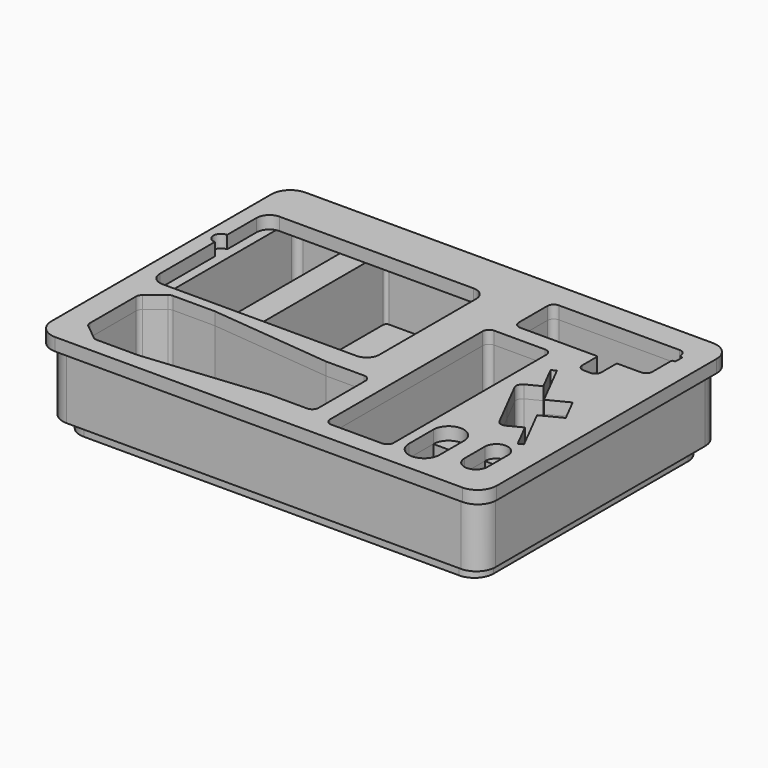
from build123d import *

# Parameters (mm, degrees)
F0_W     = 30.48
F0_H     = 30.48
F1_DEPTH = 63.5
F3_DEPTH = 12.7
F5_DEPTH = 12.7


with BuildPart() as f1:
    # F0 (on Top) → F1 (new body)
    with BuildSketch(Plane.XY):
        with BuildLine():
            Line((196.85, 149.86), (-196.85, 149.86))
            ThreePointArc((-196.85, 149.86), (-210.320384, 144.280384), (-215.9, 130.81))
            Line((-215.9, 130.81), (-215.9, -130.81))
            ThreePointArc((-215.9, -130.81), (-210.320384, -144.280384), (-196.85, -149.86))
            Line((-196.85, -149.86), (196.85, -149.86))
            ThreePointArc((196.85, -149.86), (210.320384, -144.280384), (215.9, -130.81))
            Line((215.9, -130.81), (215.9, 130.81))
            ThreePointArc((215.9, 130.81), (210.320384, 144.280384), (196.85, 149.86))
        make_face()
        with BuildLine():
            ThreePointArc((-194.486228, -125.731268), (-196.228658, -123.527866), (-196.85, -120.788345))
            Line((-196.85, -120.788345), (-196.85, -63.361655))
            ThreePointArc((-196.85, -63.361655), (-196.228658, -60.622134), (-194.486228, -58.418732))
            Line((-194.486228, -58.418732), (-178.909776, -45.857077))
            ThreePointArc((-178.909776, -45.857077), (-177.037187, -44.812093), (-174.923548, -44.45))
            Line((-174.923548, -44.45), (-133.35, -44.45))
            Line((-133.35, -44.45), (-12.7, -56.515))
            Line((-12.7, -56.515), (25.4, -56.515))
            ThreePointArc((25.4, -56.515), (29.890128, -58.374872), (31.75, -62.865))
            Line((31.75, -62.865), (31.75, -121.285))
            ThreePointArc((31.75, -121.285), (29.890128, -125.775128), (25.4, -127.635))
            Line((25.4, -127.635), (-12.7, -127.635))
            Line((-12.7, -127.635), (-133.35, -139.7))
            Line((-133.35, -139.7), (-174.923548, -139.7))
            ThreePointArc((-174.923548, -139.7), (-177.037187, -139.337907), (-178.909776, -138.292923))
            Line((-178.909776, -138.292923), (-194.486228, -125.731268))
        make_face(mode=Mode.SUBTRACT)
        with Locations((139.7, -109.22)):
            Rectangle(F0_W, F0_H, mode=Mode.SUBTRACT)
        with BuildLine():
            Line((173.736, -106.68), (173.736, -91.44))
            Line((173.736, -91.44), (196.85, -91.44))
            Line((196.85, -91.44), (196.85, -106.68))
            ThreePointArc((196.85, -106.68), (185.293, -118.237), (173.736, -106.68))
        make_face(mode=Mode.SUBTRACT)
        with BuildLine():
            ThreePointArc((114.3, -130.81), (112.440128, -135.300128), (107.95, -137.16))
            Line((107.95, -137.16), (57.15, -137.16))
            ThreePointArc((57.15, -137.16), (52.659872, -135.300128), (50.8, -130.81))
            Line((50.8, -130.81), (50.8, 59.69))
            ThreePointArc((50.8, 59.69), (52.659872, 64.180128), (57.15, 66.04))
            Line((57.15, 66.04), (107.95, 66.04))
            ThreePointArc((107.95, 66.04), (112.440128, 64.180128), (114.3, 59.69))
            Line((114.3, 59.69), (114.3, -130.81))
        make_face(mode=Mode.SUBTRACT)
        with BuildLine():
            Line((155.867918, -50.834227), (142.606856, -24.807927))
            Line((142.606856, -24.807927), (129.345794, 1.218374))
            ThreePointArc((129.345794, 1.218374), (128.964476, 6.063472), (132.120845, 9.759105))
            Line((132.120845, 9.759105), (145.699785, 16.67792))
            Line((145.699785, 16.67792), (133.01529, 41.572643))
            Line((133.01529, 41.572643), (137.541603, 43.878914))
            Line((137.541603, 43.878914), (160.316037, -0.818428))
            Line((160.316037, -0.818428), (180.684446, 9.559795))
            Line((180.684446, 9.559795), (186.738409, -2.321777))
            Line((186.738409, -2.321777), (192.792372, -14.203349))
            Line((192.792372, -14.203349), (172.423963, -24.581572))
            Line((172.423963, -24.581572), (195.198397, -69.278914))
            Line((195.198397, -69.278914), (190.672084, -71.585186))
            Line((190.672084, -71.585186), (177.987589, -46.690464))
            Line((177.987589, -46.690464), (164.40865, -53.609279))
            ThreePointArc((164.40865, -53.609279), (159.563552, -53.990596), (155.867918, -50.834227))
        make_face(mode=Mode.SUBTRACT)
        with BuildLine():
            ThreePointArc((-190.5, -21.59), (-194.990128, -19.730128), (-196.85, -15.24))
            Line((-196.85, -15.24), (-196.85, 130.81))
            ThreePointArc((-196.85, 130.81), (-194.990128, 135.300128), (-190.5, 137.16))
            Line((-190.5, 137.16), (-136.525, 137.16))
            ThreePointArc((-136.525, 137.16), (-134.279936, 136.230064), (-133.35, 133.985))
            Line((-133.35, 133.985), (-133.35, -18.415))
            ThreePointArc((-133.35, -18.415), (-134.279936, -20.660064), (-136.525, -21.59))
            Line((-136.525, -21.59), (-190.5, -21.59))
        make_face(mode=Mode.SUBTRACT)
        with BuildLine():
            Line((31.75, 26.035), (31.75, -21.59))
            ThreePointArc((31.75, -21.59), (29.890128, -26.080128), (25.4, -27.94))
            Line((25.4, -27.94), (-15.875, -27.94))
            ThreePointArc((-15.875, -27.94), (-18.120064, -27.010064), (-19.05, -24.765))
            ThreePointArc((-19.05, -24.765), (-19.979936, -22.519936), (-22.225, -21.59))
            Line((-22.225, -21.59), (-104.775, -21.59))
            ThreePointArc((-104.775, -21.59), (-107.020064, -20.660064), (-107.95, -18.415))
            Line((-107.95, -18.415), (-107.95, 133.985))
            ThreePointArc((-107.95, 133.985), (-107.020064, 136.230064), (-104.775, 137.16))
            Line((-104.775, 137.16), (-6.35, 137.16))
            ThreePointArc((-6.35, 137.16), (-1.859872, 135.300128), (0, 130.81))
            Line((0, 130.81), (0, 86.36))
            ThreePointArc((0, 86.36), (1.859872, 81.869872), (6.35, 80.01))
            Line((6.35, 80.01), (34.925, 80.01))
            ThreePointArc((34.925, 80.01), (37.170064, 79.080064), (38.1, 76.835))
            Line((38.1, 76.835), (38.1, 32.385))
            ThreePointArc((38.1, 32.385), (37.170064, 30.139936), (34.925, 29.21))
            ThreePointArc((34.925, 29.21), (32.679936, 28.280064), (31.75, 26.035))
        make_face(mode=Mode.SUBTRACT)
        with BuildLine():
            ThreePointArc((69.85, 82.55), (65.359872, 84.409872), (63.5, 88.9))
            Line((63.5, 88.9), (63.5, 124.46))
            ThreePointArc((63.5, 124.46), (65.359872, 128.950128), (69.85, 130.81))
            Line((69.85, 130.81), (190.5, 130.81))
            ThreePointArc((190.5, 130.81), (194.990128, 128.950128), (196.85, 124.46))
            Line((196.85, 124.46), (196.85, 124.1298))
            ThreePointArc((196.85, 124.1298), (197.226412, 123.239995), (198.119936, 122.8725))
            Line((198.119936, 122.8725), (198.755, 122.8725))
            ThreePointArc((198.755, 122.8725), (199.653026, 122.500526), (200.025, 121.6025))
            Line((200.025, 121.6025), (200.025, 114.6175))
            ThreePointArc((200.025, 114.6175), (199.653026, 113.719474), (198.755, 113.3475))
            Line((198.755, 113.3475), (198.12, 113.3475))
            ThreePointArc((198.12, 113.3475), (197.221974, 112.975526), (196.85, 112.0775))
            Line((196.85, 112.0775), (196.85, 88.9))
            ThreePointArc((196.85, 88.9), (194.990128, 84.409872), (190.5, 82.55))
            Line((190.5, 82.55), (167.64, 82.55))
            ThreePointArc((167.64, 82.55), (166.741974, 82.178026), (166.37, 81.28))
            Line((166.37, 81.28), (166.37, 63.5))
            ThreePointArc((166.37, 63.5), (164.510128, 59.009872), (160.02, 57.15))
            Line((160.02, 57.15), (153.67, 57.15))
            ThreePointArc((153.67, 57.15), (149.179872, 59.009872), (147.32, 63.5))
            Line((147.32, 63.5), (147.32, 81.28))
            ThreePointArc((147.32, 81.28), (146.948026, 82.178026), (146.05, 82.55))
            Line((146.05, 82.55), (69.85, 82.55))
        make_face(mode=Mode.SUBTRACT)
    extrude(amount=F1_DEPTH)


with BuildPart() as f3:
    # F2 (on Top) → F3 (new body)
    with BuildSketch(Plane.XY):
        with BuildLine():
            Line((187.325, 140.335), (-187.325, 140.335))
            ThreePointArc((-187.325, 140.335), (-200.795384, 134.755384), (-206.375, 121.285))
            Line((-206.375, 121.285), (-206.375, -121.285))
            ThreePointArc((-206.375, -121.285), (-200.795384, -134.755384), (-187.325, -140.335))
            Line((-187.325, -140.335), (187.325, -140.335))
            ThreePointArc((187.325, -140.335), (200.795384, -134.755384), (206.375, -121.285))
            Line((206.375, -121.285), (206.375, 121.285))
            ThreePointArc((206.375, 121.285), (200.795384, 134.755384), (187.325, 140.335))
        make_face()
        with BuildLine():
            Line((-182.968114, -65.445176), (-173.554483, -57.853539))
            ThreePointArc((-173.554483, -57.853539), (-172.618189, -57.331047), (-171.561369, -57.15))
            Line((-171.561369, -57.15), (-134.141775, -57.15))
            ThreePointArc((-134.141775, -57.15), (-133.983617, -57.153942), (-133.825851, -57.165757))
            Line((-133.825851, -57.165757), (-13.49099, -69.199243))
            ThreePointArc((-13.49099, -69.199243), (-13.333224, -69.211058), (-13.175065, -69.215))
            Line((-13.175065, -69.215), (15.875, -69.215))
            ThreePointArc((15.875, -69.215), (18.120064, -70.144936), (19.05, -72.39))
            Line((19.05, -72.39), (19.05, -79.375))
            ThreePointArc((19.05, -79.375), (19.979936, -81.620064), (22.225, -82.55))
            Line((22.225, -82.55), (76.2, -82.55))
            ThreePointArc((76.2, -82.55), (85.725, -92.075), (76.2, -101.6))
            Line((76.2, -101.6), (22.225, -101.6))
            ThreePointArc((22.225, -101.6), (19.979936, -102.529936), (19.05, -104.775))
            Line((19.05, -104.775), (19.05, -111.76))
            ThreePointArc((19.05, -111.76), (18.120064, -114.005064), (15.875, -114.935))
            Line((15.875, -114.935), (-13.175065, -114.935))
            ThreePointArc((-13.175065, -114.935), (-13.333224, -114.938942), (-13.49099, -114.950757))
            Line((-13.49099, -114.950757), (-133.825851, -126.984243))
            ThreePointArc((-133.825851, -126.984243), (-133.983617, -126.996058), (-134.141775, -127))
            Line((-134.141775, -127), (-171.561369, -127))
            ThreePointArc((-171.561369, -127), (-172.618189, -126.818953), (-173.554483, -126.296461))
            Line((-173.554483, -126.296461), (-182.968114, -118.704824))
            ThreePointArc((-182.968114, -118.704824), (-183.839329, -117.603123), (-184.15, -116.233362))
            Line((-184.15, -116.233362), (-184.15, -67.916638))
            ThreePointArc((-184.15, -67.916638), (-183.839329, -66.546877), (-182.968114, -65.445176))
        make_face(mode=Mode.SUBTRACT)
        with BuildLine():
            Line((-158.75, 41.91), (-158.75, 54.61))
            Line((-158.75, 54.61), (-158.75, 67.31))
            ThreePointArc((-158.75, 67.31), (-157.820064, 69.555064), (-155.575, 70.485))
            Line((-155.575, 70.485), (-85.725, 70.485))
            ThreePointArc((-85.725, 70.485), (-83.479936, 69.555064), (-82.55, 67.31))
            Line((-82.55, 67.31), (-82.55, 54.61))
            Line((-82.55, 54.61), (-82.55, 41.91))
            ThreePointArc((-82.55, 41.91), (-83.479936, 39.664936), (-85.725, 38.735))
            Line((-85.725, 38.735), (-155.575, 38.735))
            ThreePointArc((-155.575, 38.735), (-157.820064, 39.664936), (-158.75, 41.91))
        make_face(mode=Mode.SUBTRACT)
        with BuildLine():
            ThreePointArc((-8.125321, 54.61), (-6.265449, 59.100128), (-1.775321, 60.96))
            Line((-1.775321, 60.96), (87.124679, 60.96))
            ThreePointArc((87.124679, 60.96), (91.614807, 59.100128), (93.474679, 54.61))
            Line((93.474679, 54.61), (93.474679, 35.56))
            ThreePointArc((93.474679, 35.56), (91.614807, 31.069872), (87.124679, 29.21))
            Line((87.124679, 29.21), (-1.775321, 29.21))
            ThreePointArc((-1.775321, 29.21), (-6.265449, 31.069872), (-8.125321, 35.56))
            Line((-8.125321, 35.56), (-8.125321, 54.61))
        make_face(mode=Mode.SUBTRACT)
    extrude(amount=-F3_DEPTH)


with BuildPart() as f5:
    # F4 (on face) → F5 (new body)
    with BuildSketch(Plane.XY.offset(63.5)):
        with BuildLine():
            Line((203.2, 156.21), (-203.2, 156.21))
            ThreePointArc((-203.2, 156.21), (-216.670384, 150.630384), (-222.25, 137.16))
            Line((-222.25, 137.16), (-222.25, -137.16))
            ThreePointArc((-222.25, -137.16), (-216.670384, -150.630384), (-203.2, -156.21))
            Line((-203.2, -156.21), (203.2, -156.21))
            ThreePointArc((203.2, -156.21), (216.670384, -150.630384), (222.25, -137.16))
            Line((222.25, -137.16), (222.25, 137.16))
            ThreePointArc((222.25, 137.16), (216.670384, 150.630384), (203.2, 156.21))
        make_face()
        with BuildLine():
            ThreePointArc((-194.486228, -125.731268), (-196.228658, -123.527866), (-196.85, -120.788345))
            Line((-196.85, -120.788345), (-196.85, -63.361655))
            ThreePointArc((-196.85, -63.361655), (-196.228658, -60.622134), (-194.486228, -58.418732))
            Line((-194.486228, -58.418732), (-178.909776, -45.857077))
            ThreePointArc((-178.909776, -45.857077), (-177.037187, -44.812093), (-174.923548, -44.45))
            Line((-174.923548, -44.45), (-133.35, -44.45))
            Line((-133.35, -44.45), (-12.7, -56.515))
            Line((-12.7, -56.515), (25.4, -56.515))
            ThreePointArc((25.4, -56.515), (29.890128, -58.374872), (31.75, -62.865))
            Line((31.75, -62.865), (31.75, -121.285))
            ThreePointArc((31.75, -121.285), (29.890128, -125.775128), (25.4, -127.635))
            Line((25.4, -127.635), (-12.7, -127.635))
            Line((-12.7, -127.635), (-133.35, -139.7))
            Line((-133.35, -139.7), (-174.923548, -139.7))
            ThreePointArc((-174.923548, -139.7), (-177.037187, -139.337907), (-178.909776, -138.292923))
            Line((-178.909776, -138.292923), (-194.486228, -125.731268))
        make_face(mode=Mode.SUBTRACT)
        with BuildLine():
            Line((124.46, -124.46), (124.46, -93.98))
            ThreePointArc((124.46, -93.98), (139.7, -78.74), (154.94, -93.98))
            Line((154.94, -93.98), (154.94, -124.46))
            ThreePointArc((154.94, -124.46), (139.7, -139.7), (124.46, -124.46))
        make_face(mode=Mode.SUBTRACT)
        with BuildLine():
            Line((173.736, -106.68), (173.736, -91.44))
            ThreePointArc((173.736, -91.44), (185.293, -79.883), (196.85, -91.44))
            Line((196.85, -91.44), (196.85, -106.68))
            Line((196.85, -106.68), (196.85, -116.84))
            ThreePointArc((196.85, -116.84), (185.293, -128.397), (173.736, -116.84))
            Line((173.736, -116.84), (173.736, -106.68))
        make_face(mode=Mode.SUBTRACT)
        with BuildLine():
            ThreePointArc((114.3, -130.81), (112.440128, -135.300128), (107.95, -137.16))
            Line((107.95, -137.16), (57.15, -137.16))
            ThreePointArc((57.15, -137.16), (52.659872, -135.300128), (50.8, -130.81))
            Line((50.8, -130.81), (50.8, 59.69))
            ThreePointArc((50.8, 59.69), (52.659872, 64.180128), (57.15, 66.04))
            Line((57.15, 66.04), (107.95, 66.04))
            ThreePointArc((107.95, 66.04), (112.440128, 64.180128), (114.3, 59.69))
            Line((114.3, 59.69), (114.3, -130.81))
        make_face(mode=Mode.SUBTRACT)
        with BuildLine():
            Line((155.867918, -50.834227), (142.606856, -24.807927))
            Line((142.606856, -24.807927), (129.345794, 1.218374))
            ThreePointArc((129.345794, 1.218374), (128.964476, 6.063472), (132.120845, 9.759105))
            Line((132.120845, 9.759105), (145.699785, 16.67792))
            Line((145.699785, 16.67792), (133.01529, 41.572643))
            Line((133.01529, 41.572643), (137.541603, 43.878914))
            Line((137.541603, 43.878914), (160.316037, -0.818428))
            Line((160.316037, -0.818428), (180.684446, 9.559795))
            Line((180.684446, 9.559795), (186.738409, -2.321777))
            Line((186.738409, -2.321777), (192.792372, -14.203349))
            Line((192.792372, -14.203349), (172.423963, -24.581572))
            Line((172.423963, -24.581572), (195.198397, -69.278914))
            Line((195.198397, -69.278914), (190.672084, -71.585186))
            Line((190.672084, -71.585186), (177.987589, -46.690464))
            Line((177.987589, -46.690464), (164.40865, -53.609279))
            ThreePointArc((164.40865, -53.609279), (159.563552, -53.990596), (155.867918, -50.834227))
        make_face(mode=Mode.SUBTRACT)
        with BuildLine():
            Line((0, -34.29), (-193.675, -34.29))
            ThreePointArc((-193.675, -34.29), (-202.655256, -30.570256), (-206.375, -21.59))
            Line((-206.375, -21.59), (-206.375, 46.99))
            ThreePointArc((-206.375, 46.99), (-213.995, 54.61), (-206.375, 62.23))
            Line((-206.375, 62.23), (-206.375, 99.06))
            ThreePointArc((-206.375, 99.06), (-202.655256, 108.040256), (-193.675, 111.76))
            Line((-193.675, 111.76), (0, 111.76))
            ThreePointArc((0, 111.76), (8.980256, 108.040256), (12.7, 99.06))
            Line((12.7, 99.06), (12.7, -21.59))
            ThreePointArc((12.7, -21.59), (8.980256, -30.570256), (0, -34.29))
        make_face(mode=Mode.SUBTRACT)
        with BuildLine():
            ThreePointArc((69.85, 82.55), (65.359872, 84.409872), (63.5, 88.9))
            Line((63.5, 88.9), (63.5, 124.46))
            ThreePointArc((63.5, 124.46), (65.359872, 128.950128), (69.85, 130.81))
            Line((69.85, 130.81), (190.5, 130.81))
            ThreePointArc((190.5, 130.81), (194.990128, 128.950128), (196.85, 124.46))
            Line((196.85, 124.46), (196.85, 124.1298))
            ThreePointArc((196.85, 124.1298), (197.226412, 123.239995), (198.119936, 122.8725))
            Line((198.119936, 122.8725), (198.755, 122.8725))
            ThreePointArc((198.755, 122.8725), (199.653026, 122.500526), (200.025, 121.6025))
            Line((200.025, 121.6025), (200.025, 114.6175))
            ThreePointArc((200.025, 114.6175), (199.653026, 113.719474), (198.755, 113.3475))
            Line((198.755, 113.3475), (198.12, 113.3475))
            ThreePointArc((198.12, 113.3475), (197.221974, 112.975526), (196.85, 112.0775))
            Line((196.85, 112.0775), (196.85, 88.9))
            ThreePointArc((196.85, 88.9), (194.990128, 84.409872), (190.5, 82.55))
            Line((190.5, 82.55), (167.64, 82.55))
            ThreePointArc((167.64, 82.55), (166.741974, 82.178026), (166.37, 81.28))
            Line((166.37, 81.28), (166.37, 63.5))
            ThreePointArc((166.37, 63.5), (164.510128, 59.009872), (160.02, 57.15))
            Line((160.02, 57.15), (153.67, 57.15))
            ThreePointArc((153.67, 57.15), (149.179872, 59.009872), (147.32, 63.5))
            Line((147.32, 63.5), (147.32, 81.28))
            ThreePointArc((147.32, 81.28), (146.948026, 82.178026), (146.05, 82.55))
            Line((146.05, 82.55), (69.85, 82.55))
        make_face(mode=Mode.SUBTRACT)
    extrude(amount=F5_DEPTH)


solid = Compound([f1.part, f3.part, f5.part])
